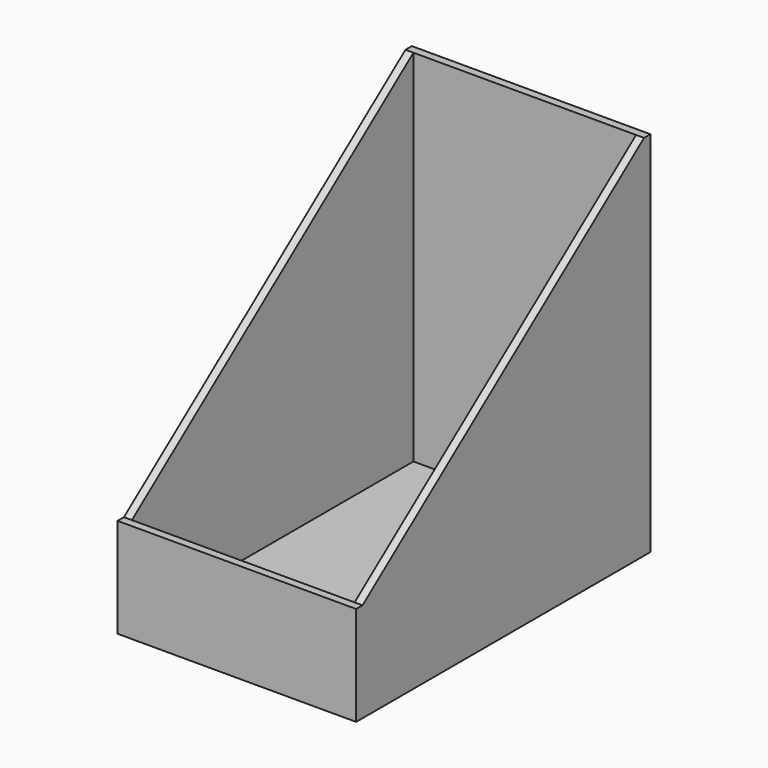
from build123d import *

# Parameters (mm, degrees)
F0_W     = 120
F0_H     = 185
F1_DEPTH = 185
F3_DEPTH = 120
F4_W     = 112
F4_H     = 177
F5_DEPTH = 181


with BuildPart() as f1:
    # F0 (on Front) → F1 (new body)
    with BuildSketch(Plane.XZ):
        with Locations((-60, -92.5)):
            Rectangle(F0_W, F0_H)
    extrude(amount=-F1_DEPTH)

    # F2 (on face) → F3 (cut, through all)
    with BuildSketch(Plane.YZ):
        Polygon((4, -135), (181, 0), (0, 0), (0, -135), align=None)
    extrude(amount=-F3_DEPTH, mode=Mode.SUBTRACT)

    # F4 (on Top) → F5 (cut)
    with BuildSketch(Plane.XY):
        with Locations((-60, 92.5)):
            Rectangle(F4_W, F4_H)
    extrude(amount=-F5_DEPTH, mode=Mode.SUBTRACT)


solid = f1.part
